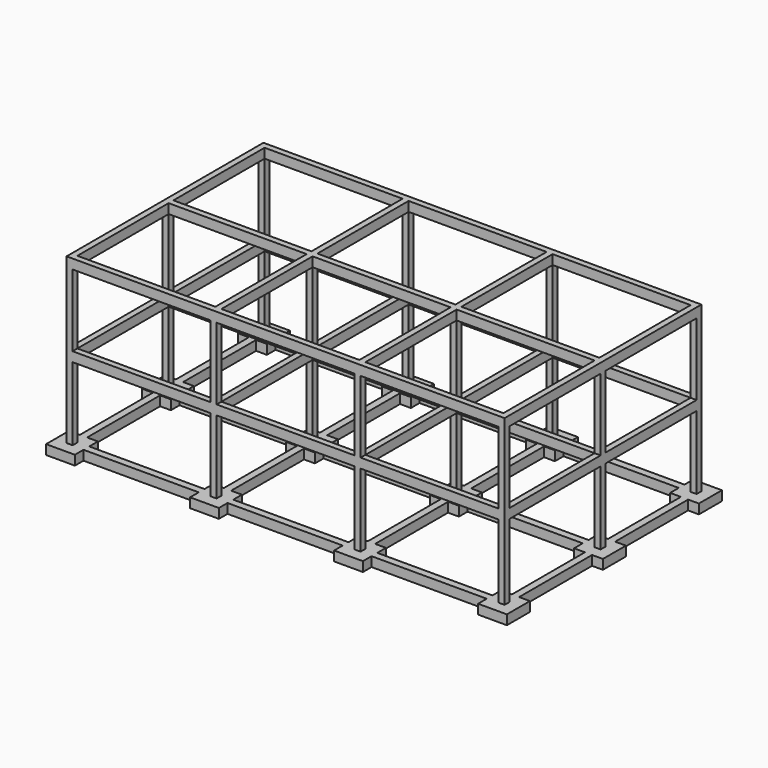
from build123d import *

# Parameters (mm, degrees)
SKETCH004_AS_DRAWN_W                             = 250
SKETCH004_AS_DRAWN_H                             = 400
EXTRUDE_SKETCH004_DEPTH                          = 4750
EXTRUDE_SKETCH004_ONTO_SKETCH004_ROLL_ANGLE      = 90
EXTRUDE_SKETCH004_ONTO_SKETCH004_PLACEMENT_ANGLE = 180
ARRAY005_X_COUNT                                 = 4
ARRAY005_X_PITCH                                 = 6000
ARRAY005_Y_COUNT                                 = 2
ARRAY005_Y_PITCH                                 = 5000
ARRAY005_Z_COUNT                                 = 2
ARRAY005_Z_PITCH                                 = 3400
SKETCH003_W                                      = 250
SKETCH003_H                                      = 400
EXTRUDE_SKETCH003_DEPTH                          = 5750
ARRAY004_X_COUNT                                 = 3
ARRAY004_X_PITCH                                 = 6000
ARRAY004_Y_COUNT                                 = 3
ARRAY004_Y_PITCH                                 = 5000
ARRAY004_Z_COUNT                                 = 2
ARRAY004_Z_PITCH                                 = 3400
SKETCH002_W                                      = 300
SKETCH002_H                                      = 400
EXTRUDE_SKETCH002_DEPTH                          = 5800
ARRAY002_X_COUNT                                 = 3
ARRAY002_X_PITCH                                 = 6000
ARRAY002_Y_COUNT                                 = 3
ARRAY002_Y_PITCH                                 = 5000
SKETCH001_W                                      = 250
SKETCH001_H                                      = 250
EXTRUDE_SKETCH001_DEPTH                          = 6850
ARRAY001_X_COUNT                                 = 4
ARRAY001_X_PITCH                                 = 6000
ARRAY001_Y_COUNT                                 = 3
ARRAY001_Y_PITCH                                 = 5000
SKETCH005_AS_DRAWN_W                             = 300
SKETCH005_AS_DRAWN_H                             = 400
EXTRUDE_SKETCH005_DEPTH                          = 3800
EXTRUDE_SKETCH005_ONTO_SKETCH005_ROLL_ANGLE      = 90
EXTRUDE_SKETCH005_ONTO_SKETCH005_PLACEMENT_ANGLE = 180
ARRAY003_X_COUNT                                 = 4
ARRAY003_X_PITCH                                 = 6000
ARRAY003_Y_COUNT                                 = 2
ARRAY003_Y_PITCH                                 = 5000
SKETCH_W                                         = 1200
SKETCH_H                                         = 1200
EXTRUDE_SKETCH_DEPTH                             = 400
ARRAY_X_COUNT                                    = 4
ARRAY_X_PITCH                                    = 6000
ARRAY_Y_COUNT                                    = 3
ARRAY_Y_PITCH                                    = 5000


with BuildPart() as obj1:
    # Sketch004 as drawn → Extrude_Sketch004 (new)
    with BuildSketch(Plane.XY):
        with Locations((-600, 3650)):
            Rectangle(SKETCH004_AS_DRAWN_W, SKETCH004_AS_DRAWN_H)
    extrude(amount=EXTRUDE_SKETCH004_DEPTH)


with BuildPart() as obj1_1:
    # Extrude_Sketch004 onto Sketch004 roll: moved
    add(obj1.part.rotate(Axis((0, 0, 0), (1, 0, 0)), EXTRUDE_SKETCH004_ONTO_SKETCH004_ROLL_ANGLE))


with BuildPart() as obj1_2:
    # Extrude_Sketch004 onto Sketch004 placement: moved
    add(obj1_1.part.moved(Location((0, 725, 0))).rotate(Axis((0, 725, 0), (0, 0, 1)), EXTRUDE_SKETCH004_ONTO_SKETCH004_PLACEMENT_ANGLE))

    # Array005 X: obj1_4


with BuildPart() as obj1_3:
    add(obj1_2.part)
    with Locations(*[(i * ARRAY005_X_PITCH, 0, 0) for i in range(1, ARRAY005_X_COUNT)]):
        add(obj1_2.part)

    # Array005 Y: obj1_2


with BuildPart() as obj1_4:
    add(obj1_3.part)
    with Locations(*[(0, i * ARRAY005_Y_PITCH, 0) for i in range(1, ARRAY005_Y_COUNT)]):
        add(obj1_3.part)

    # Array005 Z: obj1_2


with BuildPart() as obj1_5:
    add(obj1_4.part)
    with Locations(*[(0, 0, i * ARRAY005_Z_PITCH) for i in range(1, ARRAY005_Z_COUNT)]):
        add(obj1_4.part)


with BuildPart() as obj2:
    # Sketch003 → Extrude_Sketch003 (new body)
    with BuildSketch(Plane.YZ.offset(725)):
        with Locations((600, 3650)):
            Rectangle(SKETCH003_W, SKETCH003_H)
    extrude(amount=EXTRUDE_SKETCH003_DEPTH)

    # Array004 X: obj2_3


with BuildPart() as obj2_1:
    add(obj2.part)
    with Locations(*[(i * ARRAY004_X_PITCH, 0, 0) for i in range(1, ARRAY004_X_COUNT)]):
        add(obj2.part)

    # Array004 Y: obj2_3


with BuildPart() as obj2_2:
    add(obj2_1.part)
    with Locations(*[(0, i * ARRAY004_Y_PITCH, 0) for i in range(1, ARRAY004_Y_COUNT)]):
        add(obj2_1.part)

    # Array004 Z: obj2_2


with BuildPart() as obj2_3:
    add(obj2_2.part)
    with Locations(*[(0, 0, i * ARRAY004_Z_PITCH) for i in range(1, ARRAY004_Z_COUNT)]):
        add(obj2_2.part)


with BuildPart() as obj3:
    # Sketch002 → Extrude_Sketch002 (new body)
    with BuildSketch(Plane.YZ.offset(1200)):
        with Locations((600, 200)):
            Rectangle(SKETCH002_W, SKETCH002_H)
    extrude(amount=EXTRUDE_SKETCH002_DEPTH)

    # Array002 X: obj3 ×3


with BuildPart() as obj3_1:
    add(obj3.part)
    with Locations(*[(i * ARRAY002_X_PITCH, 0, 0) for i in range(1, ARRAY002_X_COUNT)]):
        add(obj3.part)

    # Array002 Y: obj3 ×3


with BuildPart() as obj3_2:
    add(obj3_1.part)
    with Locations(*[(0, i * ARRAY002_Y_PITCH, 0) for i in range(1, ARRAY002_Y_COUNT)]):
        add(obj3_1.part)


with BuildPart() as obj4:
    # Sketch001 → Extrude_Sketch001 (new body)
    with BuildSketch(Plane.XY.offset(400)):
        with Locations((600, 600)):
            Rectangle(SKETCH001_W, SKETCH001_H)
    extrude(amount=EXTRUDE_SKETCH001_DEPTH)

    # Array001 X: obj4 ×4


with BuildPart() as obj4_1:
    add(obj4.part)
    with Locations(*[(i * ARRAY001_X_PITCH, 0, 0) for i in range(1, ARRAY001_X_COUNT)]):
        add(obj4.part)

    # Array001 Y: obj4 ×3


with BuildPart() as obj4_2:
    add(obj4_1.part)
    with Locations(*[(0, i * ARRAY001_Y_PITCH, 0) for i in range(1, ARRAY001_Y_COUNT)]):
        add(obj4_1.part)


with BuildPart() as obj5:
    # Sketch005 as drawn → Extrude_Sketch005 (new)
    with BuildSketch(Plane.XY):
        with Locations((-600, 200)):
            Rectangle(SKETCH005_AS_DRAWN_W, SKETCH005_AS_DRAWN_H)
    extrude(amount=EXTRUDE_SKETCH005_DEPTH)


with BuildPart() as obj5_1:
    # Extrude_Sketch005 onto Sketch005 roll: moved
    add(obj5.part.rotate(Axis((0, 0, 0), (1, 0, 0)), EXTRUDE_SKETCH005_ONTO_SKETCH005_ROLL_ANGLE))


with BuildPart() as obj5_2:
    # Extrude_Sketch005 onto Sketch005 placement: moved
    add(obj5_1.part.moved(Location((0, 1200, 0))).rotate(Axis((0, 1200, 0), (0, 0, 1)), EXTRUDE_SKETCH005_ONTO_SKETCH005_PLACEMENT_ANGLE))

    # Array003 X: obj5_4


with BuildPart() as obj5_3:
    add(obj5_2.part)
    with Locations(*[(i * ARRAY003_X_PITCH, 0, 0) for i in range(1, ARRAY003_X_COUNT)]):
        add(obj5_2.part)

    # Array003 Y: obj5_2


with BuildPart() as obj5_4:
    add(obj5_3.part)
    with Locations(*[(0, i * ARRAY003_Y_PITCH, 0) for i in range(1, ARRAY003_Y_COUNT)]):
        add(obj5_3.part)


with BuildPart() as obj6:
    # Sketch → Extrude_Sketch (new body)
    with BuildSketch(Plane.XY):
        with Locations((600, 600)):
            Rectangle(SKETCH_W, SKETCH_H)
    extrude(amount=EXTRUDE_SKETCH_DEPTH)

    # Array X: obj6 ×4


with BuildPart() as obj6_1:
    add(obj6.part)
    with Locations(*[(i * ARRAY_X_PITCH, 0, 0) for i in range(1, ARRAY_X_COUNT)]):
        add(obj6.part)

    # Array Y: obj6 ×3


with BuildPart() as obj6_2:
    add(obj6_1.part)
    with Locations(*[(0, i * ARRAY_Y_PITCH, 0) for i in range(1, ARRAY_Y_COUNT)]):
        add(obj6_1.part)

    # Fusion: union obj1, obj2, obj3, obj4, obj5
    add(obj1_5.part)
    add(obj2_3.part)
    add(obj3_2.part)
    add(obj4_2.part)
    add(obj5_4.part)


solid = obj6_2.part
